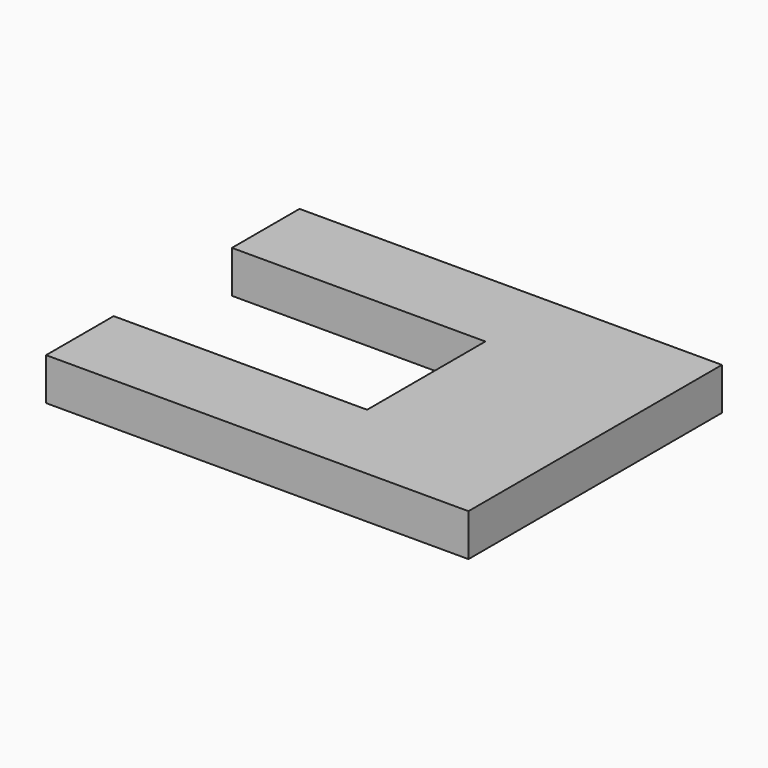
from build123d import *

# Parameters (mm, degrees)
F0_W     = 40
F0_H     = 35
F1_DEPTH = 10
F3_DEPTH = 10


with BuildPart() as f1:
    # F0 (on Top) → F1 (new body)
    with BuildSketch(Plane.XY):
        Polygon((0, 75), (0, 55), (60, 55), (100, 55), (100, 75), align=None)
        with Locations((80, 37.5)):
            Rectangle(F0_W, F0_H)
        Polygon((0, 20), (0, 0), (100, 0), (100, 20), (60, 20), align=None)
    extrude(amount=F1_DEPTH)

    # F2 (on face) → F3 (join, through all)
    with BuildSketch(Plane.XY.offset(10)):
        with BuildLine():
            ThreePointArc((0, 68), (6.9741670742, 72.626784841), (15, 75))
            Line((15, 75), (0, 75))
            Line((0, 75), (0, 68))
        make_face()
        with BuildLine():
            ThreePointArc((15, 0), (6.7778411295, 1.9525167061), (0, 7))
            Line((0, 7), (0, 0))
            Line((0, 0), (15, 0))
        make_face()
    extrude(amount=-F3_DEPTH)


solid = f1.part
